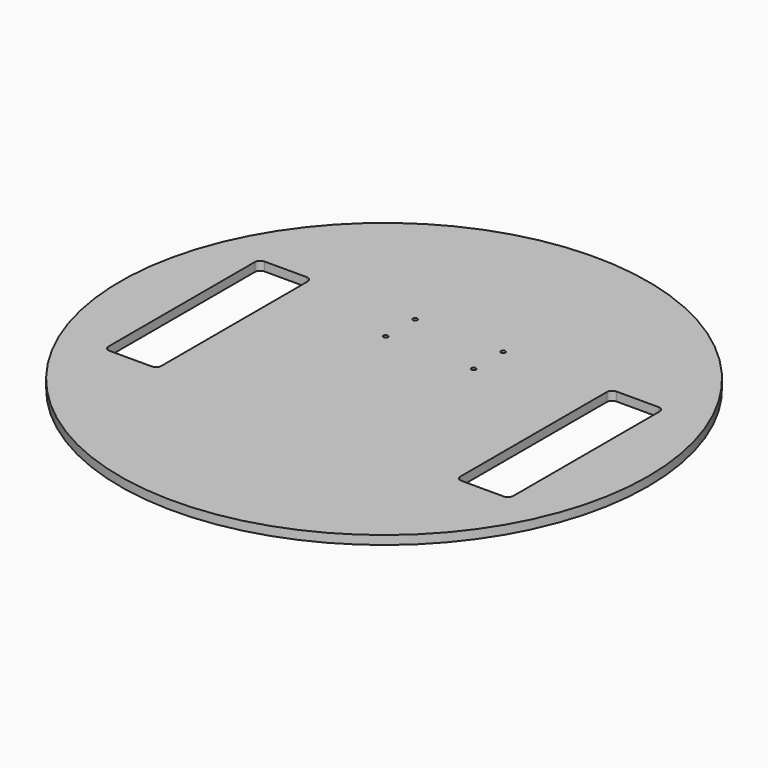
from build123d import *

# Parameters (mm, degrees)
SKETCH_R     = 150
SKETCH_W     = 30
SKETCH_H     = 110
PAD_DEPTH    = 5
FILLET_R     = 3
SKETCH003_R  = 1.25
POCKET_DEPTH = 5.001


with BuildPart() as part:
    # Sketch → Pad (new body)
    with BuildSketch(Plane.XY):
        Circle(SKETCH_R)
        with Locations((-100, 0)):
            Rectangle(SKETCH_W, SKETCH_H, mode=Mode.SUBTRACT)
        with Locations((100, 0)):
            Rectangle(SKETCH_W, SKETCH_H, mode=Mode.SUBTRACT)
    extrude(amount=PAD_DEPTH)

    # Fillet
    fillet_edges = [part.edges().sort_by_distance(p)[0] for p in [
        (-115, -55, 2.5),
        (85, -55, 2.5),
        (115, -55, 2.5),
        (-85, -55, 2.5),
        (115, 55, 2.5),
        (-85, 55, 2.5),
        (-115, 55, 2.5),
        (85, 55, 2.5),
    ]]
    fillet(fillet_edges, radius=FILLET_R)

    # Sketch003 → Pocket (cut, through all)
    with BuildSketch(Plane.XY.offset(5)):
        with Locations((-25, 53.38341)):
            Circle(SKETCH003_R)
        with Locations((25, 53.38341)):
            Circle(SKETCH003_R)
        with Locations((-25, 32.38341)):
            Circle(SKETCH003_R)
        with Locations((25, 32.38341)):
            Circle(SKETCH003_R)
    extrude(amount=-POCKET_DEPTH, mode=Mode.SUBTRACT)


solid = part.part
